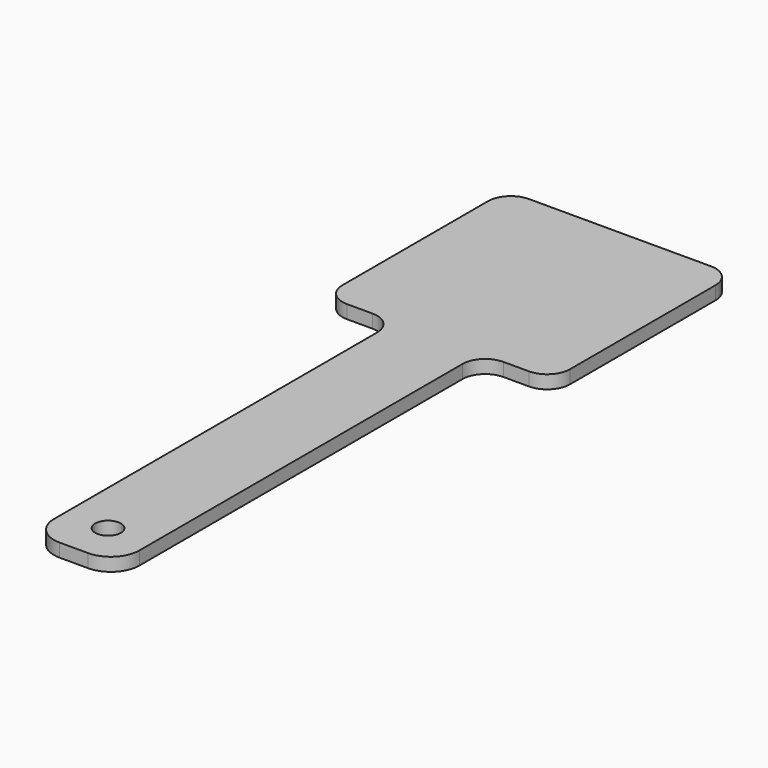
from build123d import *

# Parameters (mm, degrees)
F0_W     = 19.05
F0_H     = 152.4
F1_DEPTH = 2.9718
F2_R     = 6.35
F3_R     = 2.8575
F4_DEPTH = 25.4
F5_W     = 50.8
F5_H     = 50.8
F6_DEPTH = 2.9718
F7_R     = 5.08


with BuildPart() as f1:
    # F0 (on Top) → F1 (new body)
    with BuildSketch(Plane.XY):
        Rectangle(F0_W, F0_H)
    extrude(amount=F1_DEPTH)

    # F2
    f2_edges = [f1.edges().sort_by_distance(p)[0] for p in [
        (9.525, -76.2, 1.4859),
        (-9.525, -76.2, 1.4859),
    ]]
    fillet(f2_edges, radius=F2_R)

    # F3 (on face) → F4 (cut)
    with BuildSketch(Plane.XY.offset(2.9718)):
        with Locations((0, -66.675)):
            Circle(F3_R)
    extrude(amount=-F4_DEPTH, mode=Mode.SUBTRACT)

    # F5 (on face) → F6 (join)
    with BuildSketch(Plane.XY.offset(2.9718)):
        with Locations((0, 50.8)):
            Rectangle(F5_W, F5_H)
    extrude(amount=-F6_DEPTH)

    # F7
    f7_edges = [f1.edges().sort_by_distance(p)[0] for p in [
        (9.525, 25.4, 1.4859),
        (25.4, 25.4, 1.4859),
        (-9.525, 25.4, 1.4859),
        (-25.4, 25.4, 1.4859),
        (25.4, 76.2, 1.4859),
        (-25.4, 76.2, 1.4859),
    ]]
    fillet(f7_edges, radius=F7_R)


solid = f1.part
